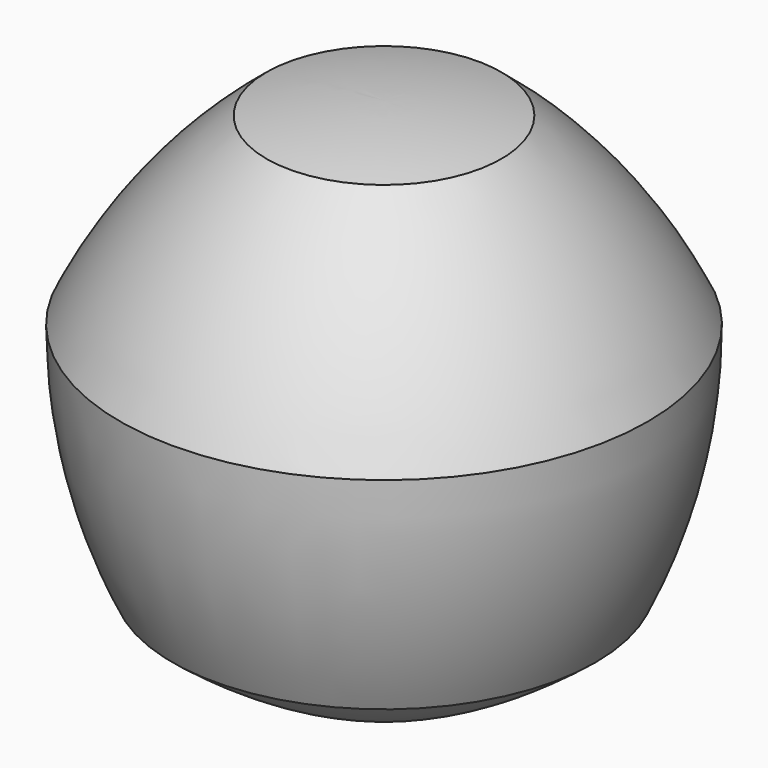
from build123d import *


with BuildPart() as f1:
    # F0 (on Front) → F1 (revolve)
    with BuildSketch(Plane.XZ):
        with BuildLine():
            Line((0, -51.285843), (0, 48.714157))
            ThreePointArc((0, 48.714157), (-11.196448, 48.085378), (-22.252093, 46.206948))
            ThreePointArc((-22.252093, 46.206948), (-38.086261, 30.37278), (-50, 11.412174))
            ThreePointArc((-50, 11.412174), (-47.492791, -10.83992), (-40.096887, -31.9762))
            ThreePointArc((-40.096887, -31.9762), (-21.136281, -43.889939), (0, -51.285843))
        make_face()
    revolve(axis=Axis((0, 0, -1.285843), (0, 0, -1)))


solid = f1.part
